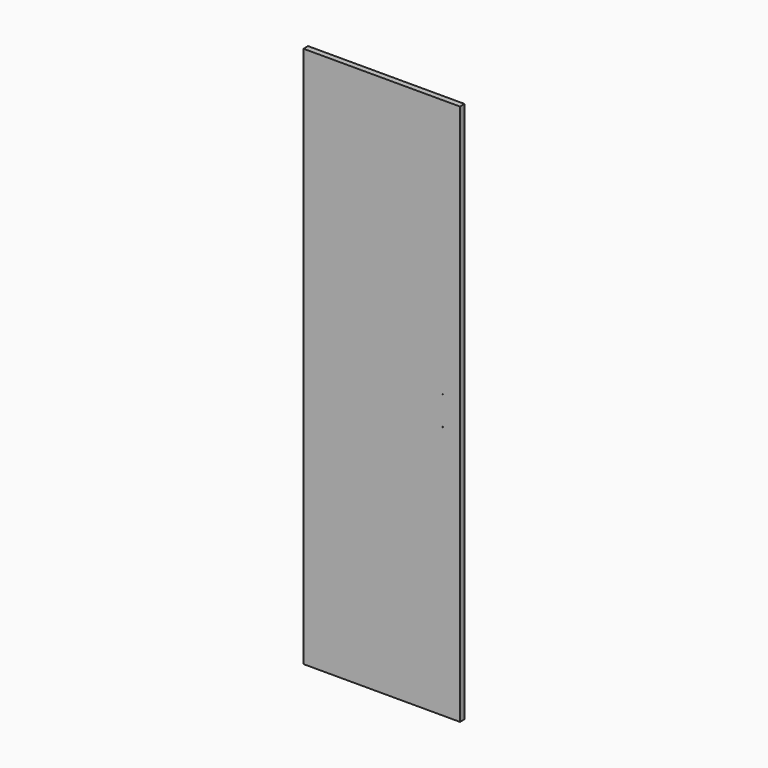
from build123d import *

# Parameters (mm, degrees)
F0_W     = 520
F0_H     = 1800
F1_DEPTH = 19
F2_R     = 2.5
F3_DEPTH = 14
F4_R     = 1
F5_DEPTH = 19.001


with BuildPart() as f1:
    # F0 (on Front) → F1 (new body)
    with BuildSketch(Plane.XZ):
        Rectangle(F0_W, F0_H)
    extrude(amount=F1_DEPTH)

    # F2 (on face) → F3 (cut)
    with BuildSketch(Plane(origin=(0, 0, 0), x_dir=(-1, 0, 0), z_dir=(0, 1, 0))):
        with Locations((-203, 840)):
            Circle(F2_R)
        with Locations((-203, 808)):
            Circle(F2_R)
        with Locations((-203, 776)):
            Circle(F2_R)
        with Locations((-203, 744)):
            Circle(F2_R)
        with Locations((-203, 712)):
            Circle(F2_R)
        with Locations((-203, 680)):
            Circle(F2_R)
        with Locations((-203, 648)):
            Circle(F2_R)
        with Locations((-203, 616)):
            Circle(F2_R)
        with Locations((-203, 584)):
            Circle(F2_R)
        with Locations((-203, 552)):
            Circle(F2_R)
        with Locations((-203, 520)):
            Circle(F2_R)
        with Locations((-203, 488)):
            Circle(F2_R)
        with Locations((-203, 456)):
            Circle(F2_R)
        with Locations((-203, 424)):
            Circle(F2_R)
        with Locations((-203, 392)):
            Circle(F2_R)
        with Locations((-203, 360)):
            Circle(F2_R)
        with Locations((-203, 328)):
            Circle(F2_R)
        with Locations((-203, 296)):
            Circle(F2_R)
        with Locations((-203, 264)):
            Circle(F2_R)
        with Locations((-203, 232)):
            Circle(F2_R)
        with Locations((-203, 200)):
            Circle(F2_R)
        with Locations((-203, 168)):
            Circle(F2_R)
        with Locations((-203, 136)):
            Circle(F2_R)
        with Locations((-203, 104)):
            Circle(F2_R)
        with Locations((-203, 72)):
            Circle(F2_R)
        with Locations((-203, 40)):
            Circle(F2_R)
        with Locations((-203, 8)):
            Circle(F2_R)
        with Locations((-203, -24)):
            Circle(F2_R)
        with Locations((-203, -56)):
            Circle(F2_R)
        with Locations((-203, -88)):
            Circle(F2_R)
        with Locations((-203, -120)):
            Circle(F2_R)
        with Locations((-203, -152)):
            Circle(F2_R)
        with Locations((-203, -184)):
            Circle(F2_R)
        with Locations((-203, -216)):
            Circle(F2_R)
        with Locations((-203, -248)):
            Circle(F2_R)
        with Locations((-203, -280)):
            Circle(F2_R)
        with Locations((-203, -312)):
            Circle(F2_R)
        with Locations((-203, -344)):
            Circle(F2_R)
        with Locations((-203, -376)):
            Circle(F2_R)
        with Locations((-203, -408)):
            Circle(F2_R)
        with Locations((-203, -440)):
            Circle(F2_R)
        with Locations((-203, -472)):
            Circle(F2_R)
        with Locations((-203, -504)):
            Circle(F2_R)
        with Locations((-203, -536)):
            Circle(F2_R)
        with Locations((-203, -568)):
            Circle(F2_R)
        with Locations((-203, -600)):
            Circle(F2_R)
        with Locations((-203, -632)):
            Circle(F2_R)
        with Locations((-203, -664)):
            Circle(F2_R)
        with Locations((-203, -696)):
            Circle(F2_R)
        with Locations((-203, -728)):
            Circle(F2_R)
        with Locations((203, 840)):
            Circle(F2_R)
        with Locations((203, 808)):
            Circle(F2_R)
        with Locations((203, 776)):
            Circle(F2_R)
        with Locations((203, 744)):
            Circle(F2_R)
        with Locations((203, 712)):
            Circle(F2_R)
        with Locations((203, 680)):
            Circle(F2_R)
        with Locations((203, 648)):
            Circle(F2_R)
        with Locations((203, 616)):
            Circle(F2_R)
        with Locations((203, 584)):
            Circle(F2_R)
        with Locations((203, 552)):
            Circle(F2_R)
        with Locations((203, 520)):
            Circle(F2_R)
        with Locations((203, 488)):
            Circle(F2_R)
        with Locations((203, 456)):
            Circle(F2_R)
        with Locations((203, 424)):
            Circle(F2_R)
        with Locations((203, 392)):
            Circle(F2_R)
        with Locations((203, 360)):
            Circle(F2_R)
        with Locations((203, 328)):
            Circle(F2_R)
        with Locations((203, 296)):
            Circle(F2_R)
        with Locations((203, 264)):
            Circle(F2_R)
        with Locations((203, 232)):
            Circle(F2_R)
        with Locations((203, 200)):
            Circle(F2_R)
        with Locations((203, 168)):
            Circle(F2_R)
        with Locations((203, 136)):
            Circle(F2_R)
        with Locations((203, 104)):
            Circle(F2_R)
        with Locations((203, 72)):
            Circle(F2_R)
        with Locations((203, 40)):
            Circle(F2_R)
        with Locations((203, 8)):
            Circle(F2_R)
        with Locations((203, -24)):
            Circle(F2_R)
        with Locations((203, -56)):
            Circle(F2_R)
        with Locations((203, -88)):
            Circle(F2_R)
        with Locations((203, -120)):
            Circle(F2_R)
        with Locations((203, -152)):
            Circle(F2_R)
        with Locations((203, -184)):
            Circle(F2_R)
        with Locations((203, -216)):
            Circle(F2_R)
        with Locations((203, -248)):
            Circle(F2_R)
        with Locations((203, -280)):
            Circle(F2_R)
        with Locations((203, -312)):
            Circle(F2_R)
        with Locations((203, -344)):
            Circle(F2_R)
        with Locations((203, -376)):
            Circle(F2_R)
        with Locations((203, -408)):
            Circle(F2_R)
        with Locations((203, -440)):
            Circle(F2_R)
        with Locations((203, -472)):
            Circle(F2_R)
        with Locations((203, -504)):
            Circle(F2_R)
        with Locations((203, -536)):
            Circle(F2_R)
        with Locations((203, -568)):
            Circle(F2_R)
        with Locations((203, -600)):
            Circle(F2_R)
        with Locations((203, -632)):
            Circle(F2_R)
        with Locations((203, -664)):
            Circle(F2_R)
        with Locations((203, -696)):
            Circle(F2_R)
        with Locations((203, -728)):
            Circle(F2_R)
        with Locations((-203, -760)):
            Circle(F2_R)
        with Locations((-203, -792)):
            Circle(F2_R)
        with Locations((-203, -824)):
            Circle(F2_R)
        with Locations((203, -760)):
            Circle(F2_R)
        with Locations((203, -792)):
            Circle(F2_R)
        with Locations((203, -824)):
            Circle(F2_R)
    extrude(amount=-F3_DEPTH, mode=Mode.SUBTRACT)

    # F4 (on face) → F5 (cut, through all)
    with BuildSketch(Plane.XZ.offset(19)):
        with Locations((203, 40)):
            Circle(F4_R)
        with Locations((203, -56)):
            Circle(F4_R)
    extrude(amount=-F5_DEPTH, mode=Mode.SUBTRACT)


solid = f1.part
